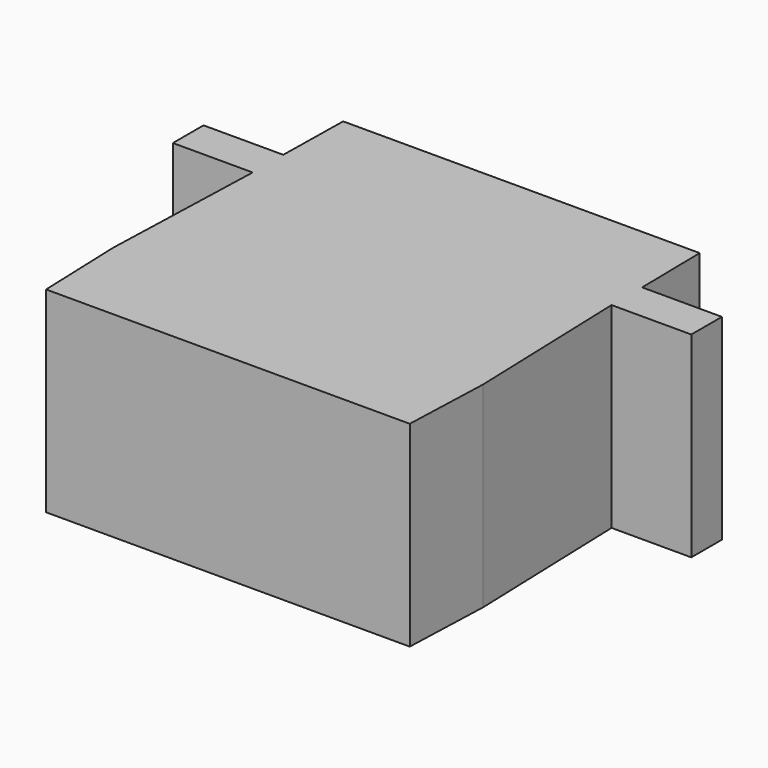
from build123d import *

# Parameters (mm, degrees)
F1_DEPTH = 6.15


with BuildPart() as f1:
    # F0 (on Top) → F1 (new body, symmetric)
    with BuildSketch(Plane.XY):
        Polygon((-16.25, 12.9), (-16.25, 10.5), (-11.25, 10.5), (-11.6, 0), (-11.4, -5.5), (11.4, -5.5), (11.6, 0), (11.25, 10.5), (16.25, 10.5), (16.25, 12.9), (11.25, 12.9), (11.175, 17.5), (-11.175, 17.5), (-11.25, 12.9), align=None)
    extrude(amount=F1_DEPTH, both=True)


solid = f1.part
